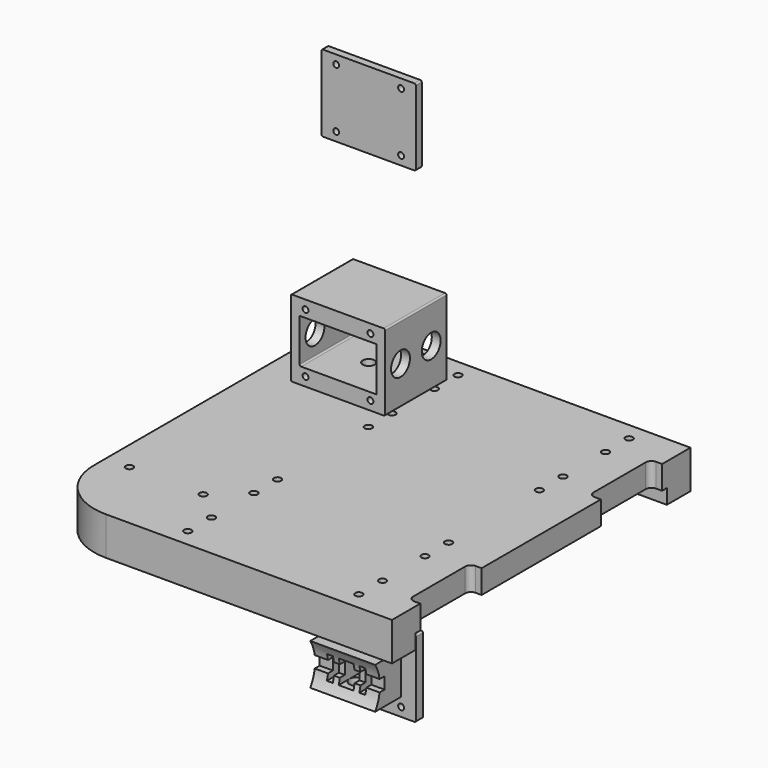
from build123d import *

# Parameters (mm, degrees)
F0_R      = 1.25
F1_DEPTH  = 13
F2_W      = 106.5
F2_H      = 11.8342628703
F3_DEPTH  = 60
F4_R      = 2.5
F5_DEPTH  = 3
F6_R      = 2.5
F7_DEPTH  = 3
F8_W      = 32
F8_H      = 26
F8_W_2    = 26
F8_H_2    = 15
F9_DEPTH  = 13
F10_R     = 1
F11_DEPTH = 3
F12_R     = 4
F13_DEPTH = 35
F14_R     = 2
F15_DEPTH = 3
F16_R     = 2
F17_DEPTH = 12
F18_R     = 0.5
F19_W     = 32
F19_H     = 26
F19_R     = 1
F20_DEPTH = 2.5
F21_R     = 0.5
F22_W     = 32
F22_H     = 26
F22_R     = 1
F23_DEPTH = 3
F24_W     = 22
F24_H     = 14
F25_DEPTH = 11
F27_DEPTH = 25
F28_W     = 4.2011217096
F28_H     = 4
F29_DEPTH = 25
F30_W     = 5
F30_H     = 8
F30_W_2   = 2
F31_DEPTH = 25
F32_R     = 2.5
F33_DEPTH = 25
F34_R     = 0.5


with BuildPart() as f1:
    # F0 (on Top) → F1 (new body)
    with BuildSketch(Plane.XY):
        with BuildLine():
            Line((58.5, 51.25), (58.5, 63.25))
            Line((58.5, 63.25), (-38.5, 63.25))
            ThreePointArc((-38.5, 63.25), (-52.6421356237, 57.3921356237), (-58.5, 43.25))
            Line((-58.5, 43.25), (-58.5, -43.25))
            ThreePointArc((-58.5, -43.25), (-52.6421356237, -57.3921356237), (-38.5, -63.25))
            Line((-38.5, -63.25), (58.5, -63.25))
            Line((58.5, -63.25), (58.5, -51.25))
            Line((58.5, -51.25), (56.5, -51.25))
            ThreePointArc((56.5, -51.25), (55.0857864376, -50.6642135624), (54.5, -49.25))
            Line((54.5, -49.25), (54.5, -27.25))
            ThreePointArc((54.5, -27.25), (55.0857864376, -25.8357864376), (56.5, -25.25))
            Line((56.5, -25.25), (58.5, -25.25))
            Line((58.5, -25.25), (58.5, 25.25))
            Line((58.5, 25.25), (56.5, 25.25))
            ThreePointArc((56.5, 25.25), (55.0857864376, 25.8357864376), (54.5, 27.25))
            Line((54.5, 27.25), (54.5, 49.25))
            ThreePointArc((54.5, 49.25), (55.0857864376, 50.6642135624), (56.5, 51.25))
            Line((56.5, 51.25), (58.5, 51.25))
        make_face()
        with Locations((-50.5, -38.25)):
            Circle(F0_R, mode=Mode.SUBTRACT)
        with Locations((-15.5, -57.25)):
            Circle(F0_R, mode=Mode.SUBTRACT)
        with Locations((-15.5, -47.25)):
            Circle(F0_R, mode=Mode.SUBTRACT)
        with Locations((-25.5, -38.25)):
            Circle(F0_R, mode=Mode.SUBTRACT)
        with Locations((-15.5, -29.25)):
            Circle(F0_R, mode=Mode.SUBTRACT)
        with Locations((-15.5, -19.25)):
            Circle(F0_R, mode=Mode.SUBTRACT)
        with Locations((42.5, -57.25)):
            Circle(F0_R, mode=Mode.SUBTRACT)
        with Locations((42.5, -47.25)):
            Circle(F0_R, mode=Mode.SUBTRACT)
        with Locations((42.5, -29.25)):
            Circle(F0_R, mode=Mode.SUBTRACT)
        with Locations((42.5, -19.25)):
            Circle(F0_R, mode=Mode.SUBTRACT)
        with Locations((-15.5, 19.25)):
            Circle(F0_R, mode=Mode.SUBTRACT)
        with Locations((-15.5, 29.25)):
            Circle(F0_R, mode=Mode.SUBTRACT)
        with Locations((-50.5, 38.25)):
            Circle(F0_R, mode=Mode.SUBTRACT)
        with Locations((-25.5, 38.25)):
            Circle(F0_R, mode=Mode.SUBTRACT)
        with Locations((-15.5, 47.25)):
            Circle(F0_R, mode=Mode.SUBTRACT)
        with Locations((-15.5, 57.25)):
            Circle(F0_R, mode=Mode.SUBTRACT)
        with Locations((42.5, 19.25)):
            Circle(F0_R, mode=Mode.SUBTRACT)
        with Locations((42.5, 29.25)):
            Circle(F0_R, mode=Mode.SUBTRACT)
        with Locations((42.5, 47.25)):
            Circle(F0_R, mode=Mode.SUBTRACT)
        with Locations((42.5, 57.25)):
            Circle(F0_R, mode=Mode.SUBTRACT)
    extrude(amount=-F1_DEPTH)

    # F2 (on Right) → F3 (cut, symmetric)
    with BuildSketch(Plane.YZ):
        with Locations((0, -13.9171314351)):
            Rectangle(F2_W, F2_H)
    extrude(amount=F3_DEPTH, both=True, mode=Mode.SUBTRACT)

    # F4 (on face) → F5 (cut)
    with BuildSketch(Plane(origin=(0, 0, -13), x_dir=(1, 0, 0), z_dir=(0, 0, -1))):
        with Locations((-15.5, 57.25)):
            Circle(F4_R)
        with Locations((42.5, 57.25)):
            Circle(F4_R)
    extrude(amount=-F5_DEPTH, mode=Mode.SUBTRACT)

    # F6 (on face) → F7 (cut)
    with BuildSketch(Plane(origin=(0, 0, -13), x_dir=(1, 0, 0), z_dir=(0, 0, -1))):
        with Locations((-15.5, -57.25)):
            Circle(F6_R)
        with Locations((42.5, -57.25)):
            Circle(F6_R)
    extrude(amount=-F7_DEPTH, mode=Mode.SUBTRACT)


with BuildPart() as f9:
    # F8 (on Front) → F9 (new body, symmetric)
    with BuildSketch(Plane.XZ):
        with Locations((0, 39.6034605801)):
            Rectangle(F8_W, F8_H)
        with Locations((0, 39.6034605801)):
            Rectangle(F8_W_2, F8_H_2, mode=Mode.SUBTRACT)
    extrude(amount=F9_DEPTH, both=True)

    # F10 (on face) → F11 (cut)
    with BuildSketch(Plane.XZ.offset(13)):
        with Locations((-11, 49.6034605801)):
            Circle(F10_R)
        with Locations((11, 49.6034605801)):
            Circle(F10_R)
        with Locations((-11, 29.6034605801)):
            Circle(F10_R)
        with Locations((11, 29.6034605801)):
            Circle(F10_R)
    extrude(amount=-F11_DEPTH, mode=Mode.SUBTRACT)

    # F12 (on face) → F13 (cut)
    with BuildSketch(Plane.YZ.offset(16)):
        with Locations((-6.5, 39.6034605801)):
            Circle(F12_R)
        with Locations((6.5, 39.6034605801)):
            Circle(F12_R)
    extrude(amount=-F13_DEPTH, mode=Mode.SUBTRACT)

    # F14 (on face) → F15 (cut)
    with BuildSketch(Plane(origin=(0, 0, 47.1034605801), x_dir=(1, 0, 0), z_dir=(0, 0, -1))):
        Circle(F14_R)
    extrude(amount=-F15_DEPTH, mode=Mode.SUBTRACT)

    # F16 (on face) → F17 (cut)
    with BuildSketch(Plane(origin=(0, 0, 26.6034605801), x_dir=(1, 0, 0), z_dir=(0, 0, -1))):
        Circle(F16_R)
    extrude(amount=-F17_DEPTH, mode=Mode.SUBTRACT)

    # F18
    f18_edges = [f9.edges().sort_by_distance(p)[0] for p in [
        (16, 0, 52.603461),
        (-16, 0, 52.603461),
        (16, 0, 26.603461),
        (-13, 0, 32.103461),
        (-16, 0, 26.603461),
    ]]
    fillet(f18_edges, radius=F18_R)


with BuildPart() as f20:
    # F19 (on Front) → F20 (new body)
    with BuildSketch(Plane.XZ):
        with Locations((0, 107.4631288648)):
            Rectangle(F19_W, F19_H)
        with Locations((-11, 97.4631288648)):
            Circle(F19_R, mode=Mode.SUBTRACT)
        with Locations((11, 97.4631288648)):
            Circle(F19_R, mode=Mode.SUBTRACT)
        with Locations((-11, 117.4631288648)):
            Circle(F19_R, mode=Mode.SUBTRACT)
        with Locations((11, 117.4631288648)):
            Circle(F19_R, mode=Mode.SUBTRACT)
    extrude(amount=-F20_DEPTH)

    # F21
    f21_edges = [f20.edges().sort_by_distance(p)[0] for p in [
        (16, 1.25, 120.463129),
        (16, 1.25, 94.463129),
        (-16, 1.25, 120.463129),
        (-16, 1.25, 94.463129),
    ]]
    fillet(f21_edges, radius=F21_R)


with BuildPart() as f23:
    # F22 (on Front) → F23 (new body)
    with BuildSketch(Plane.XZ):
        with Locations((0, -57.1029037237)):
            Rectangle(F22_W, F22_H)
        with Locations((-11, -67.1029037237)):
            Circle(F22_R, mode=Mode.SUBTRACT)
        with Locations((11, -67.1029037237)):
            Circle(F22_R, mode=Mode.SUBTRACT)
        with Locations((-11, -47.1029037237)):
            Circle(F22_R, mode=Mode.SUBTRACT)
        with Locations((11, -47.1029037237)):
            Circle(F22_R, mode=Mode.SUBTRACT)
    extrude(amount=-F23_DEPTH)

    # F24 (on face) → F25 (join)
    with BuildSketch(Plane.XZ):
        with Locations((0, -57.1029037237)):
            Rectangle(F24_W, F24_H)
    extrude(amount=F25_DEPTH)

    # F26 (on face) → F27 (cut)
    with BuildSketch(Plane(origin=(-11, 0, 0), x_dir=(0, -1, 0), z_dir=(-1, 0, 0))):
        with BuildLine():
            Line((14.6111249924, -50.1029037237), (11, -50.1029037237))
            ThreePointArc((11, -50.1029037237), (8.9544511501, -57.1029037237), (11, -64.1029037237))
            Line((11, -64.1029037237), (14.6111249924, -64.1029037237))
            Line((14.6111249924, -64.1029037237), (14.6111249924, -50.1029037237))
        make_face()
    extrude(amount=-F27_DEPTH, mode=Mode.SUBTRACT)

    # F28 (on face) → F29 (cut)
    with BuildSketch(Plane(origin=(-11, 0, 0), x_dir=(0, -1, 0), z_dir=(-1, 0, 0))):
        with Locations((9.1005608548, -57.1029037237)):
            Rectangle(F28_W, F28_H)
    extrude(amount=-F29_DEPTH, mode=Mode.SUBTRACT)

    # F30 (on face) → F31 (cut)
    with BuildSketch(Plane(origin=(0, 3, 0), x_dir=(-1, 0, 0), z_dir=(0, 1, 0))):
        with Locations((0, -57.1029037237)):
            Rectangle(F30_W, F30_H)
        with Locations((-5.5, -57.1029037237)):
            Rectangle(F30_W_2, F30_H)
        with Locations((5.5, -57.1029037237)):
            Rectangle(F30_W_2, F30_H)
    extrude(amount=-F31_DEPTH, mode=Mode.SUBTRACT)

    # F32 (on face) → F33 (cut)
    with BuildSketch(Plane(origin=(0, 0, -64.1029037237), x_dir=(1, 0, 0), z_dir=(0, 0, -1))):
        with Locations((0, 5)):
            Circle(F32_R)
    extrude(amount=-F33_DEPTH, mode=Mode.SUBTRACT)

    # F34
    f34_edges = [f23.edges().sort_by_distance(p)[0] for p in [
        (16, 1.5, -70.102904),
        (16, 1.5, -44.102904),
        (-16, 1.5, -70.102904),
        (-16, 1.5, -44.102904),
    ]]
    fillet(f34_edges, radius=F34_R)


solid = Compound([f1.part, f9.part, f20.part, f23.part])
